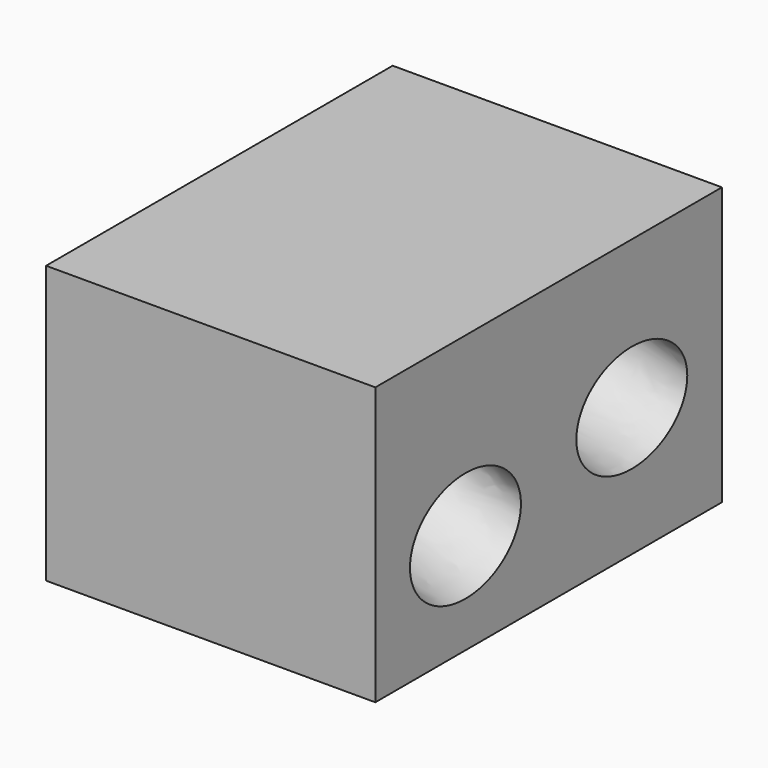
from build123d import *

# Parameters (mm, degrees)
F0_W      = 19
F0_H      = 25
F1_DEPTH  = 16
F8_DEPTH  = 19.527568
F9_DEPTH  = 20.080016
F10_W     = 1
F10_H     = 1
F12_DEPTH = 3.248466
F11_W     = 1
F11_H     = 1
F13_DEPTH = 2.968128


with BuildPart() as f1:
    # F0 (on Top) → F1 (new body)
    with BuildSketch(Plane.XY):
        with Locations((9.5, 12.5)):
            Rectangle(F0_W, F0_H)
    extrude(amount=F1_DEPTH)

    # F6 (on face) → F8 (cut, through all)
    with BuildSketch(Plane(origin=(-1.133975, 0, 0.303848), x_dir=(0, 1, 0), z_dir=(0.965926, 0, -0.258819))):
        with BuildLine():
            add(Edge.make_bspline(
                [(22.5, 12.108748), (22.5, 17.3049), (16.5, 14.706824), (10.5, 12.108748), (16.5, 9.510672), (22.5, 6.912596), (22.5, 12.108748)],
                knots=[0, 0, 0, 2.094395, 2.094395, 4.18879, 4.18879, 6.283185, 6.283185, 6.283185], degree=2, weights=[1, 0.5, 1, 0.5, 1, 0.5, 1]))
        make_face()
    extrude(amount=F8_DEPTH, mode=Mode.SUBTRACT)

    # F7 (on face) → F9 (cut, through all)
    with BuildSketch(Plane(origin=(-2.090681, 0, 0.760946), x_dir=(0, 1, 0), z_dir=(0.939693, 0, -0.34202))):
        with BuildLine():
            add(Edge.make_bspline(
                [(2.5, 11.960352), (2.5, 6.764199), (8.5, 9.362276), (14.5, 11.960352), (8.5, 14.558428), (2.5, 17.156504), (2.5, 11.960352)],
                knots=[0, 0, 0, 2.094395, 2.094395, 4.18879, 4.18879, 6.283185, 6.283185, 6.283185], degree=2, weights=[1, 0.5, 1, 0.5, 1, 0.5, 1]))
        make_face()
    extrude(amount=F9_DEPTH, mode=Mode.SUBTRACT)

    # F10 (on face) → F12 (cut, through all)
    with BuildSketch(Plane(origin=(-2.090681, 0, 0.760946), x_dir=(0, 1, 0), z_dir=(0.939693, 0, -0.34202))):
        with Locations((7.77, 11.960352)):
            Rectangle(F10_W, F10_H)
        with Locations((5.23, 11.960352)):
            Rectangle(F10_W, F10_H)
    extrude(amount=-F12_DEPTH, mode=Mode.SUBTRACT)

    # F11 (on face) → F13 (cut, through all)
    with BuildSketch(Plane(origin=(-1.133975, 0, 0.303848), x_dir=(0, 1, 0), z_dir=(0.965926, 0, -0.258819))):
        with Locations((17.23, 12.108748)):
            Rectangle(F11_W, F11_H)
        with Locations((19.77, 12.108748)):
            Rectangle(F11_W, F11_H)
    extrude(amount=-F13_DEPTH, mode=Mode.SUBTRACT)


solid = f1.part
